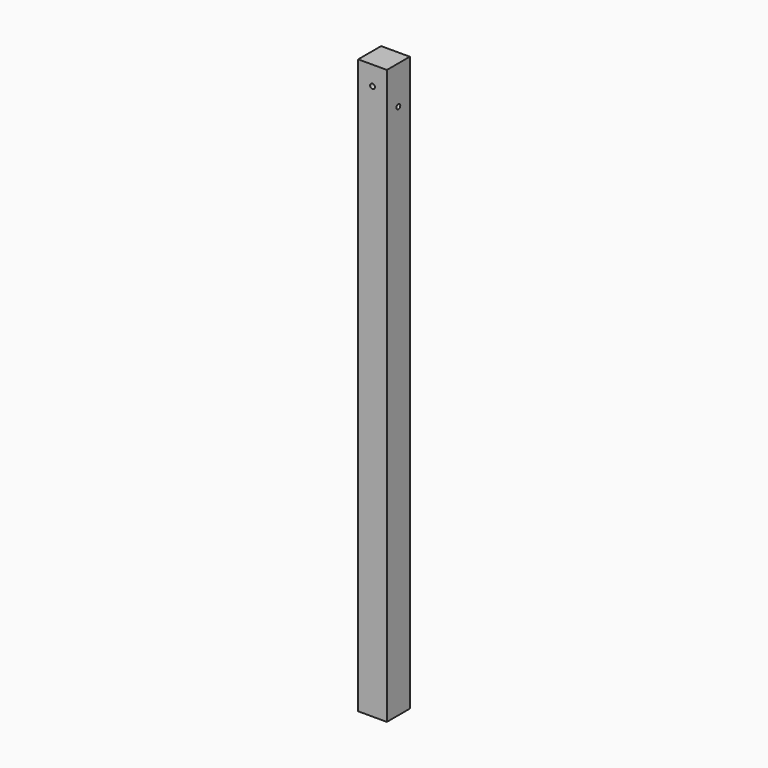
from build123d import *

# Parameters (mm, degrees)
F0_W     = 38.1
F0_H     = 38.1
F1_DEPTH = 762
F2_R     = 3.175
F3_DEPTH = 38.101
F4_R     = 3.175
F5_DEPTH = 38.101


with BuildPart() as f1:
    # F0 (on Top) → F1 (new body)
    with BuildSketch(Plane.XY):
        Rectangle(F0_W, F0_H)
    extrude(amount=-F1_DEPTH)

    # F2 (on face) → F3 (cut, through all)
    with BuildSketch(Plane.XZ.offset(19.05)):
        with Locations((0, -25.4)):
            Circle(F2_R)
    extrude(amount=-F3_DEPTH, mode=Mode.SUBTRACT)

    # F4 (on face) → F5 (cut, through all)
    with BuildSketch(Plane.YZ.offset(19.05)):
        with Locations((0, -50.8)):
            Circle(F4_R)
    extrude(amount=-F5_DEPTH, mode=Mode.SUBTRACT)


solid = f1.part
